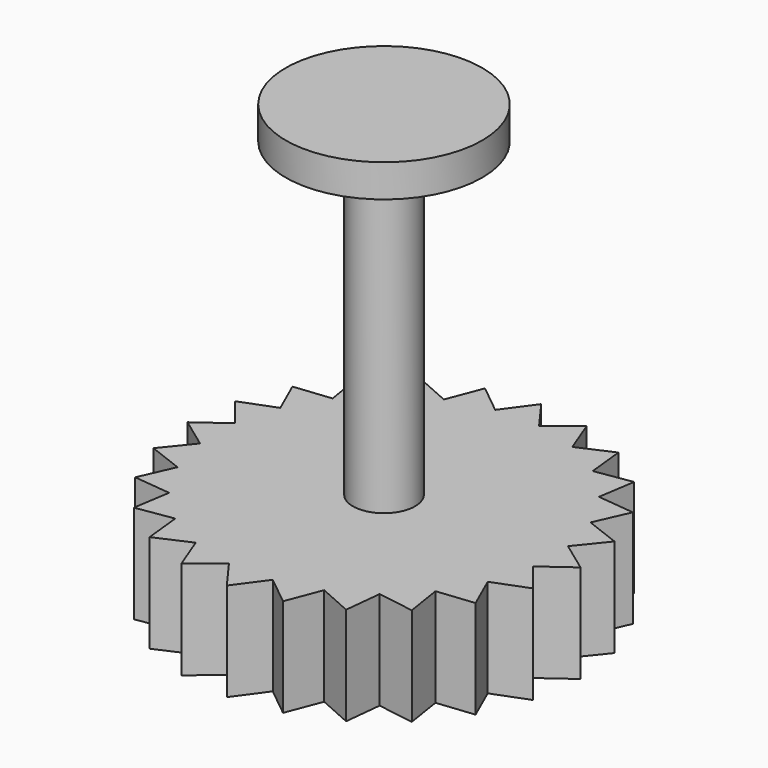
from build123d import *

# Parameters (mm, degrees)
OBJ1       = 12
SKETCH_03_SCREW_SHAFT_PROFILE_R  = 3.8
PAD_04_SCREW_SHAFT_DEPTH         = 38
SKETCH_05_PRESSURE_PAD_PROFILE_R = 12
PAD_06_PRESSURE_PAD_DEPTH        = 4


with BuildPart() as part:
    with BuildSketch(Plane.XY):
        Polygon((24, 0), (20.32462, 2.675787), (23.18222, 6.211657), (18.93953, 7.84501), (20.78461, 12), (16.263743, 12.479609), (16.970563, 16.970563), (12.479609, 16.263743), (12, 20.78461), (7.84501, 18.93953), (6.211657, 23.18222), (2.675787, 20.32462), (0, 24), (-2.675787, 20.32462), (-6.211657, 23.18222), (-7.84501, 18.93953), (-12, 20.78461), (-12.479609, 16.263743), (-16.970563, 16.970563), (-16.263743, 12.479609), (-20.78461, 12), (-18.93953, 7.84501), (-23.18222, 6.211657), (-20.32462, 2.675787), (-24, 0), (-20.32462, -2.675787), (-23.18222, -6.211657), (-18.93953, -7.84501), (-20.78461, -12), (-16.263743, -12.479609), (-16.970563, -16.970563), (-12.479609, -16.263743), (-12, -20.78461), (-7.84501, -18.93953), (-6.211657, -23.18222), (-2.675787, -20.32462), (0, -24), (2.675787, -20.32462), (6.211657, -23.18222), (7.84501, -18.93953), (12, -20.78461), (12.479609, -16.263743), (16.970563, -16.970563), (16.263743, -12.479609), (20.78461, -12), (18.93953, -7.84501), (23.18222, -6.211657), (20.32462, -2.675787), align=None)
    extrude(amount=OBJ1)

    # Sketch_03_Screw_Shaft_Profile → Pad_04_Screw_Shaft (join)
    with BuildSketch(Plane.XY.offset(12)):
        Circle(SKETCH_03_SCREW_SHAFT_PROFILE_R)
    extrude(amount=PAD_04_SCREW_SHAFT_DEPTH)

    # Sketch_05_Pressure_Pad_Profile → Pad_06_Pressure_Pad (join)
    with BuildSketch(Plane.XY.offset(50)):
        Circle(SKETCH_05_PRESSURE_PAD_PROFILE_R)
    extrude(amount=PAD_06_PRESSURE_PAD_DEPTH)


solid = part.part
